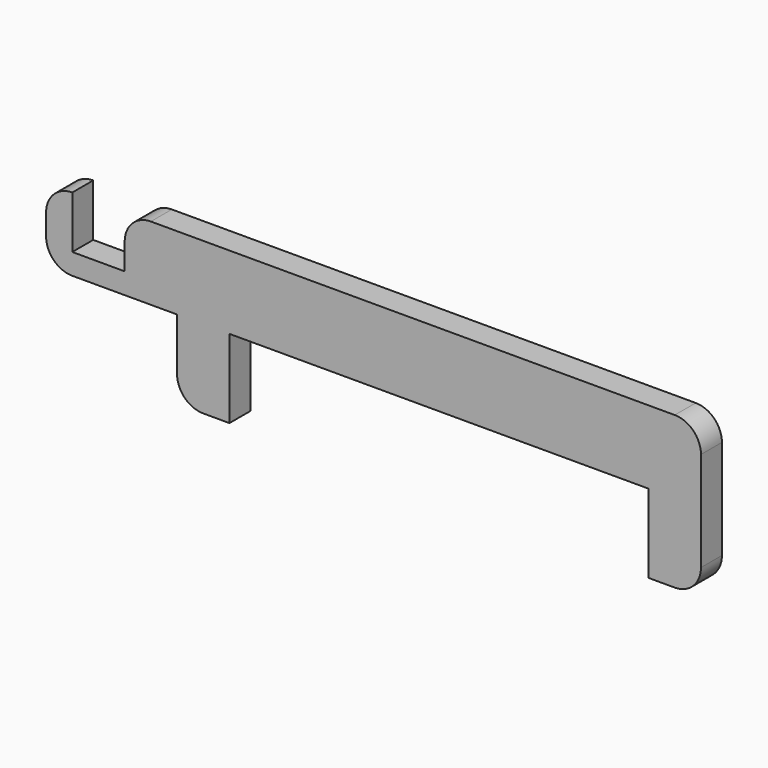
from build123d import *

# Parameters (mm, degrees)
F1_DEPTH = 6.35


with BuildPart() as f1:
    # F0 (on Front) → F1 (new body)
    with BuildSketch(Plane.XZ):
        with BuildLine():
            Line((0, 19.05), (0, 0))
            Line((0, 0), (6.35, 0))
            ThreePointArc((6.35, 0), (10.840128, 1.859872), (12.7, 6.35))
            Line((12.7, 6.35), (12.7, 30.48))
            ThreePointArc((12.7, 30.48), (10.840128, 34.970128), (6.35, 36.83))
            Line((6.35, 36.83), (-120.65, 36.83))
            ThreePointArc((-120.65, 36.83), (-125.140128, 34.970128), (-127, 30.48))
            Line((-127, 30.48), (-127, 24.13))
            Line((-127, 24.13), (-139.7, 24.13))
            Line((-139.7, 24.13), (-139.7, 36.83))
            ThreePointArc((-139.7, 36.83), (-144.190128, 34.970128), (-146.05, 30.48))
            Line((-146.05, 30.48), (-146.05, 25.4))
            ThreePointArc((-146.05, 25.4), (-144.190128, 20.909872), (-139.7, 19.05))
            Line((-139.7, 19.05), (-114.3, 19.05))
            Line((-114.3, 19.05), (-114.3, 6.35))
            ThreePointArc((-114.3, 6.35), (-112.440128, 1.859872), (-107.95, 0))
            Line((-107.95, 0), (-101.6, 0))
            Line((-101.6, 0), (-101.6, 19.05))
            Line((-101.6, 19.05), (0, 19.05))
        make_face()
    extrude(amount=F1_DEPTH)


solid = f1.part
